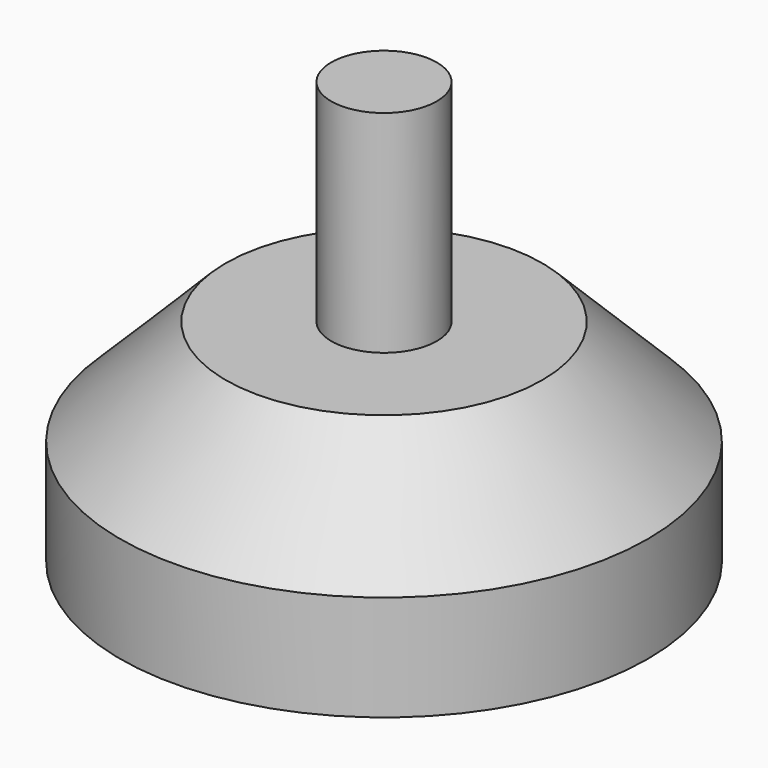
from build123d import *

# Parameters (mm, degrees)
F0_R     = 31.75
F1_DEPTH = 25.4
F2_SIZE  = 12.7
F3_R     = 6.35
F4_DEPTH = 25.4


with BuildPart() as f1:
    # F0 (on Top) → F1 (new body)
    with BuildSketch(Plane.XY):
        Circle(F0_R)
    extrude(amount=F1_DEPTH)

    # F2
    f2_edges = [f1.edges().sort_by_distance(p)[0] for p in [
        (-31.75, 0, 25.4),
    ]]
    chamfer(f2_edges, length=F2_SIZE)

    # F3 (on face) → F4 (join)
    with BuildSketch(Plane.XY.offset(25.4)):
        Circle(F3_R)
    extrude(amount=F4_DEPTH)


solid = f1.part
